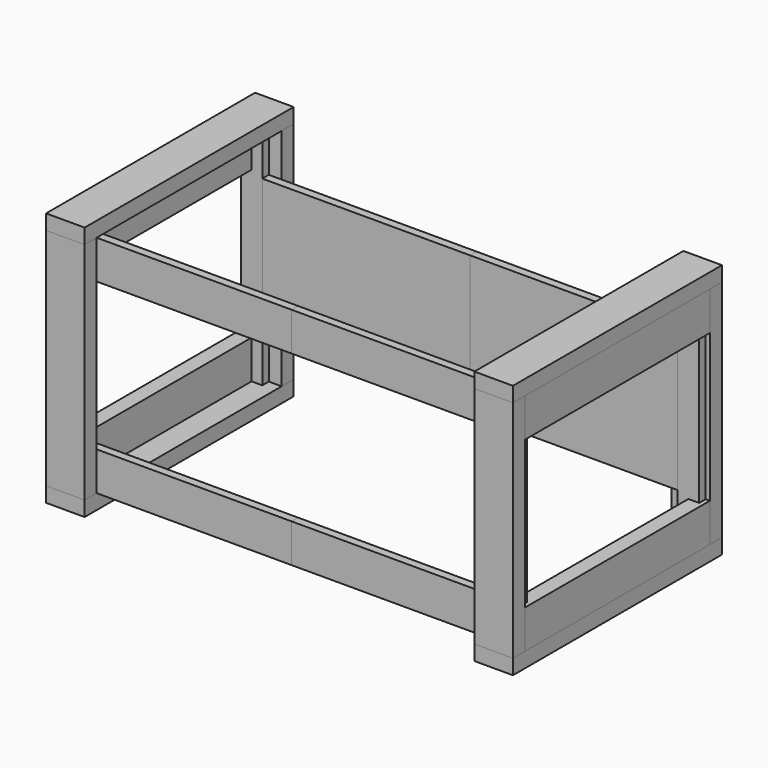
from build123d import *

# Parameters (mm, degrees)
F0_W      = 90
F0_H      = 610
F1_DEPTH  = 35
F2_W      = 90
F2_H      = 35
F3_DEPTH  = 525
F4_W      = 90
F4_H      = 610
F5_DEPTH  = 35
F6_W      = 540
F6_H      = 90
F7_DEPTH  = 35
F9_DEPTH  = 19
F11_W     = 485
F11_H     = 325
F12_DEPTH = 19
F13_W     = 485
F13_H     = 90
F14_DEPTH = 19


with BuildPart() as f1:
    # F0 (on Top) → F1 (new body)
    with BuildSketch(Plane.XY):
        with Locations((-500, 0)):
            Rectangle(F0_W, F0_H)
        with Locations((500, 0)):
            Rectangle(F0_W, F0_H)
    extrude(amount=F1_DEPTH)


with BuildPart() as f3:
    # F2 (on face) → F3 (new body)
    with BuildSketch(Plane.XY.offset(35)):
        with Locations((-500, 287.5)):
            Rectangle(F2_W, F2_H)
        with Locations((-500, -287.5)):
            Rectangle(F2_W, F2_H)
        with Locations((500, 287.5)):
            Rectangle(F2_W, F2_H)
        with Locations((500, -287.5)):
            Rectangle(F2_W, F2_H)
    extrude(amount=F3_DEPTH)


with BuildPart() as f5:
    # F4 (on face) → F5 (new body)
    with BuildSketch(Plane.XY.offset(560)):
        with Locations((-500, 0)):
            Rectangle(F4_W, F4_H)
        with Locations((500, 0)):
            Rectangle(F4_W, F4_H)
    extrude(amount=F5_DEPTH)


with BuildPart() as f7:
    # F6 (on face) → F7 (new body)
    with BuildSketch(Plane.YZ.offset(545)):
        with Locations((0, 80)):
            Rectangle(F6_W, F6_H)
        with Locations((0, 515)):
            Rectangle(F6_W, F6_H)
    extrude(amount=-F7_DEPTH)


with BuildPart() as f9:
    # F8 (on face) → F9 (new body)
    with BuildSketch(Plane.XZ.offset(-270)):
        Polygon((485, 560), (485, 35), (510, 35), (510, 125), (535, 125), (535, 470), (510, 470), (510, 560), align=None)
    extrude(amount=F9_DEPTH)


with BuildPart() as f10_1:
    # F10: instance of F9
    add(f9.part.mirror(Plane.XZ))


with BuildPart() as f12:
    # F11 (on face) → F12 (new body)
    with BuildSketch(Plane.XZ.offset(-270)):
        with Locations((242.5, 297.5)):
            Rectangle(F11_W, F11_H)
    extrude(amount=F12_DEPTH)


with BuildPart() as f14:
    # F13 (on face) → F14 (new body)
    with BuildSketch(Plane(origin=(0, -270, 0), x_dir=(-1, 0, 0), z_dir=(0, 1, 0))):
        with Locations((-242.5, 515)):
            Rectangle(F13_W, F13_H)
        with Locations((-242.5, 80)):
            Rectangle(F13_W, F13_H)
    extrude(amount=F14_DEPTH)


with BuildPart() as f15_1:
    # F15: instance of F7
    add(f7.part.mirror(Plane.YZ))


with BuildPart() as f15_2:
    # F15: instance of F9
    add(f9.part.mirror(Plane.YZ))


with BuildPart() as f15_3:
    # F15: instance of F10_1
    add(f10_1.part.mirror(Plane.YZ))


with BuildPart() as f15_4:
    # F15: instance of F14
    add(f14.part.mirror(Plane.YZ))


with BuildPart() as f15_5:
    # F15: instance of F12
    add(f12.part.mirror(Plane.YZ))


solid = Compound([f1.part, f3.part, f5.part, f7.part, f9.part, f10_1.part, f12.part, f14.part, f15_1.part, f15_2.part, f15_3.part, f15_4.part, f15_5.part])
